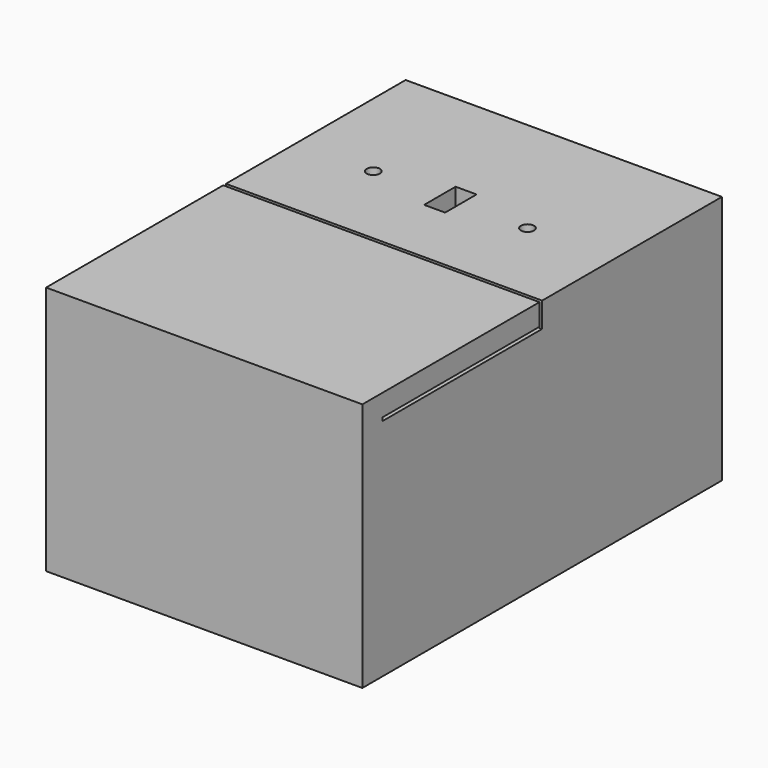
from build123d import *

# Parameters (mm, degrees)
F0_W     = 120.65
F0_H     = 95.25
F0_W_2   = 101.6
F0_H_2   = 76.2
F1_DEPTH = 152.4
F2_W     = 9.525
F2_H     = 95.25
F3_DEPTH = 120.65
F4_W     = 120.65
F4_H     = 1.27
F5_DEPTH = 9.525
F6_W     = 8
F6_H     = 15
F6_R     = 2.5
F7_DEPTH = 25.4
F8_W     = 74.93
F8_H     = 1.27
F9_DEPTH = 179.07


with BuildPart() as f1:
    # F0 (on Front) → F1 (new body)
    with BuildSketch(Plane.XZ):
        with Locations((1.705641, 0)):
            Rectangle(F0_W, F0_H)
        with Locations((1.705641, 0)):
            Rectangle(F0_W_2, F0_H_2, mode=Mode.SUBTRACT)
    extrude(amount=F1_DEPTH)

    # F2 (on face) → F3 (join)
    with BuildSketch(Plane(origin=(-58.619359, 0, 0), x_dir=(0, -1, 0), z_dir=(-1, 0, 0))):
        with Locations((-4.7625, 0)):
            Rectangle(F2_W, F2_H)
        with Locations((157.1625, 0)):
            Rectangle(F2_W, F2_H)
    extrude(amount=-F3_DEPTH)

    # F4 (on face) → F5 (cut)
    with BuildSketch(Plane.XY.offset(47.625)):
        with Locations((1.705641, -76.835)):
            Rectangle(F4_W, F4_H)
    extrude(amount=-F5_DEPTH, mode=Mode.SUBTRACT)

    # F6 (on face) → F7 (cut)
    with BuildSketch(Plane.XY.offset(47.625)):
        with Locations((0, -42.425)):
            Rectangle(F6_W, F6_H)
        with Locations((-29.4, -42.425)):
            Circle(F6_R)
        with Locations((29.4, -42.425)):
            Circle(F6_R)
    extrude(amount=-F7_DEPTH, mode=Mode.SUBTRACT)

    # F8 (on face) → F9 (cut)
    with BuildSketch(Plane(origin=(-58.619359, 0, 0), x_dir=(0, -1, 0), z_dir=(-1, 0, 0))):
        with Locations((114.935, 38.735)):
            Rectangle(F8_W, F8_H)
    extrude(amount=-F9_DEPTH, mode=Mode.SUBTRACT)


solid = f1.part
